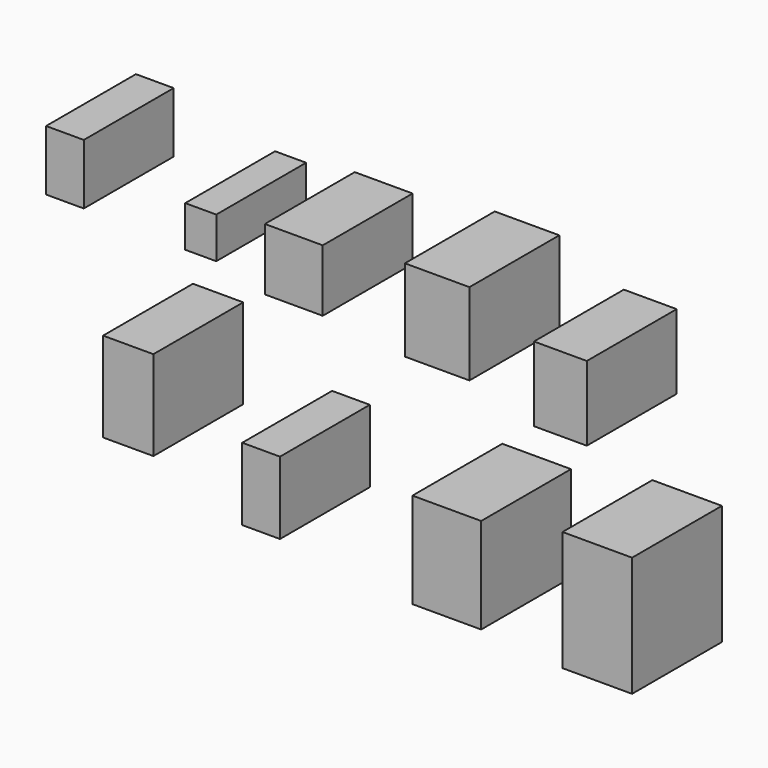
from build123d import *

# Parameters (mm, degrees)
F0_W     = 8.531872
F0_H     = 13.650995
F0_W_2   = 7.015096
F0_H_2   = 9.290263
F0_W_3   = 13.082204
F0_H_3   = 14.03019
F0_W_4   = 14.598982
F0_H_4   = 18.580522
F0_W_5   = 11.944618
F0_H_5   = 16.874148
F0_W_6   = 11.37583
F0_H_6   = 20.286895
F0_H_7   = 16.400155
F0_W_7   = 15.546966
F0_H_8   = 21.614076
F0_W_8   = 15.736565
F0_H_9   = 27.112393
F1_DEPTH = 25.4


with BuildPart() as f1:
    # F0 (on Front) → F1 (new body)
    with BuildSketch(Plane.XZ):
        with Locations((-56.689551, 41.806174)):
            Rectangle(F0_W, F0_H)
        with Locations((-25.974811, 38.867418)):
            Rectangle(F0_W_2, F0_H_2)
        with Locations((-4.929526, 38.203827)):
            Rectangle(F0_W_3, F0_H_3)
        with Locations((27.491587, 38.393425)):
            Rectangle(F0_W_4, F0_H_4)
        with Locations((55.362368, 33.179504)):
            Rectangle(F0_W_5, F0_H_5)
        with Locations((-42.374965, 0.947986)):
            Rectangle(F0_W_6, F0_H_6)
        with Locations((-12.323815, -8.200077)):
            Rectangle(F0_W, F0_H_7)
        with Locations((29.671954, -8.816268)):
            Rectangle(F0_W_7, F0_H_8)
        with Locations((63.704648, -7.773484)):
            Rectangle(F0_W_8, F0_H_9)
    extrude(amount=F1_DEPTH)


solid = f1.part
